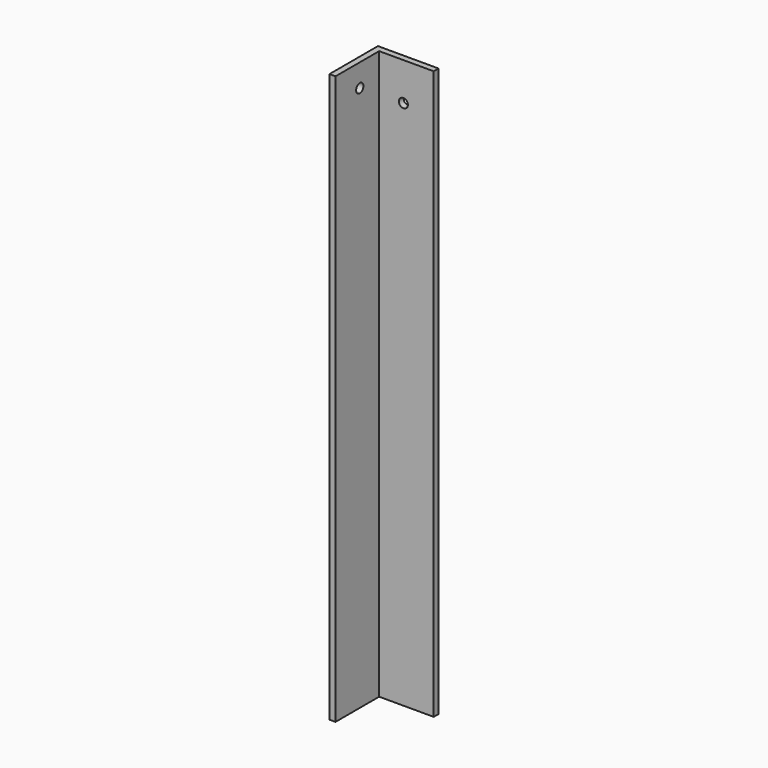
from build123d import *

# Parameters (mm, degrees)
CYLINDER001_R           = 6
CYLINDER001_DEPTH       = 1300
CYLINDER001_PITCH_ANGLE = 90
CYLINDER002_R           = 6
CYLINDER002_DEPTH       = 900
CYLINDER002_ROLL_ANGLE  = -90
BOX003_W                = 80
BOX003_H                = 80
BOX003_DEPTH            = 750
BOX002_W                = 80
BOX002_H                = 80
BOX002_DEPTH            = 750


with BuildPart() as cylinder001:
    # Cylinder001 → Cylinder001 (new body)
    with BuildSketch(Plane.XY):
        Circle(CYLINDER001_R)
    extrude(amount=CYLINDER001_DEPTH)


with BuildPart() as cylinder001_1:
    # Cylinder001 pitch: moved
    add(cylinder001.part.rotate(Axis((0, 0, 0), (0, 1, 0)), CYLINDER001_PITCH_ANGLE))


with BuildPart() as cylinder001_2:
    # Cylinder001 placement: moved
    add(cylinder001_1.part.moved(Location((-10, 840, 720))))


with BuildPart() as cylinder002:
    # Cylinder002 → Cylinder002 (new body)
    with BuildSketch(Plane.XY):
        Circle(CYLINDER002_R)
    extrude(amount=CYLINDER002_DEPTH)


with BuildPart() as cylinder002_1:
    # Cylinder002 roll: moved
    add(cylinder002.part.rotate(Axis((0, 0, 0), (1, 0, 0)), CYLINDER002_ROLL_ANGLE))


with BuildPart() as cylinder002_2:
    # Cylinder002 placement: moved
    add(cylinder002_1.part.moved(Location((40, -10, 700))))


with BuildPart() as cube003:
    # Box003 → Box003 (new body)
    with BuildSketch(Plane(origin=(8, 792, 0), x_dir=(1, 0, 0), z_dir=(0, 0, 1))):
        with Locations((40, 40)):
            Rectangle(BOX003_W, BOX003_H)
    extrude(amount=BOX003_DEPTH)


with BuildPart() as cut008:
    # Box002 → Box002 (new body)
    with BuildSketch(Plane(origin=(0, 800, 0), x_dir=(1, 0, 0), z_dir=(0, 0, 1))):
        with Locations((40, 40)):
            Rectangle(BOX002_W, BOX002_H)
    extrude(amount=BOX002_DEPTH)

    # Cut001: cut Cube003
    add(cube003.part, mode=Mode.SUBTRACT)

    # Cut007: cut Cylinder002
    add(cylinder002_2.part, mode=Mode.SUBTRACT)

    # Cut008: cut Cylinder001
    add(cylinder001_2.part, mode=Mode.SUBTRACT)


solid = cut008.part
